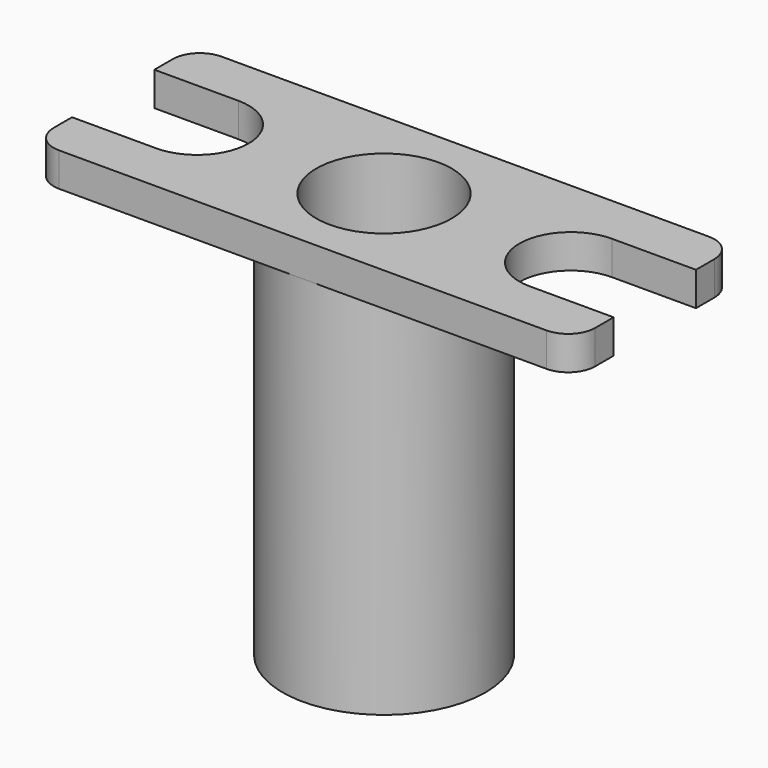
from build123d import *

# Parameters (mm, degrees)
F1_DEPTH      = 6.35
F2_R          = 19.05
F2_R_2        = 4.7625
F4_DEPTH      = 69.85
F3_R          = 12.7
F5_DEPTH      = 63.5
F5_DEPTH_BACK = 25.4
F6_R          = 5.08


with BuildPart() as f1:
    # F0 (on Top) → F1 (new body)
    with BuildSketch(Plane.XY):
        with BuildLine():
            Line((0, 9.398), (0, 0))
            Line((0, 0), (101.6, 0))
            Line((101.6, 0), (101.6, 9.398))
            Line((101.6, 9.398), (85.852, 9.398))
            ThreePointArc((85.852, 9.398), (76.2, 19.05), (85.852, 28.702))
            Line((85.852, 28.702), (101.6, 28.702))
            Line((101.6, 28.702), (101.6, 38.1))
            Line((101.6, 38.1), (0, 38.1))
            Line((0, 38.1), (0, 28.702))
            Line((0, 28.702), (15.748, 28.702))
            ThreePointArc((15.748, 28.702), (25.4, 19.05), (15.748, 9.398))
            Line((15.748, 9.398), (0, 9.398))
        make_face()
    extrude(amount=F1_DEPTH)

    # F2 (on Top) → F4 (join)
    with BuildSketch(Plane.XY):
        with Locations((50.8, 19.05)):
            Circle(F2_R)
        with Locations((50.8, 19.05)):
            Circle(F2_R_2, mode=Mode.SUBTRACT)
    extrude(amount=-F4_DEPTH)

    # F3 (on Top) → F5 (cut, two sides)
    with BuildSketch(Plane.XY) as f5_sk:
        with Locations((50.8, 19.05)):
            Circle(F3_R)
    extrude(amount=-F5_DEPTH, mode=Mode.SUBTRACT)
    extrude(f5_sk.sketch, amount=F5_DEPTH_BACK, mode=Mode.SUBTRACT)

    # F6
    f6_edges = [f1.edges().sort_by_distance(p)[0] for p in [
        (101.6, 0, 3.175),
        (101.6, 38.1, 3.175),
        (0, 0, 3.175),
        (0, 38.1, 3.175),
    ]]
    fillet(f6_edges, radius=F6_R)


solid = f1.part
